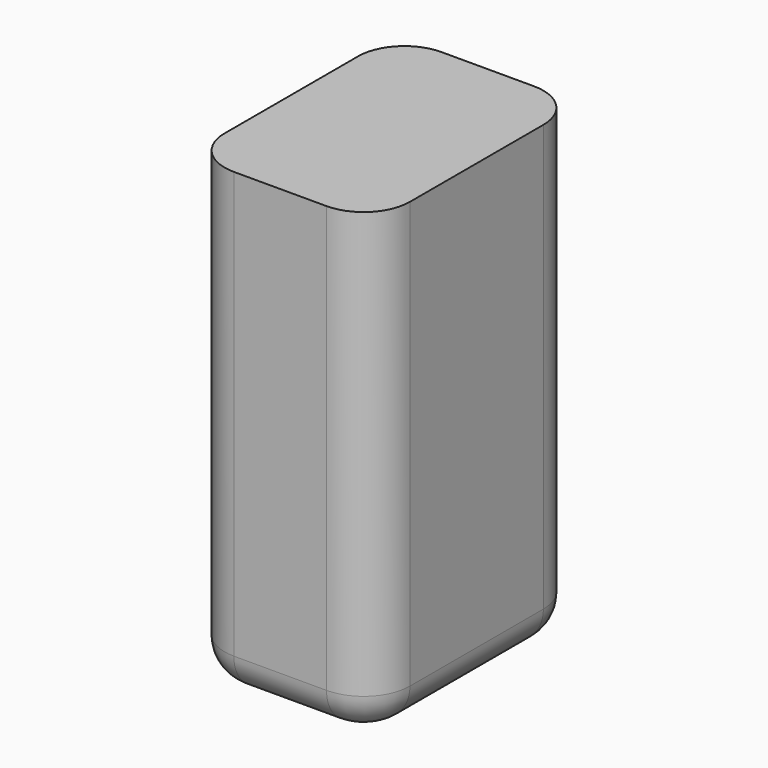
from build123d import *

# Parameters (mm, degrees)
F0_W     = 25.4
F0_H     = 63.5
F1_DEPTH = 17.78
F2_R     = 6.35
F3_R     = 5.08


with BuildPart() as f1:
    # F0 (on Front) → F1 (new body, symmetric)
    with BuildSketch(Plane.XZ):
        Rectangle(F0_W, F0_H)
    extrude(amount=F1_DEPTH, both=True)

    # F2
    f2_edges = [f1.edges().sort_by_distance(p)[0] for p in [
        (-12.7, -17.78, 0),
        (-12.7, 17.78, 0),
        (12.7, 17.78, 0),
        (12.7, -17.78, 0),
    ]]
    fillet(f2_edges, radius=F2_R)

    # F3
    f3_edges = [f1.edges().sort_by_distance(p)[0] for p in [
        (0, 17.78, -31.75),
        (-10.840128, 15.920128, -31.75),
        (10.840128, 15.920128, -31.75),
        (-12.7, 0, -31.75),
        (12.7, 0, -31.75),
        (-10.840128, -15.920128, -31.75),
        (10.840128, -15.920128, -31.75),
        (0, -17.78, -31.75),
    ]]
    fillet(f3_edges, radius=F3_R)


solid = f1.part
